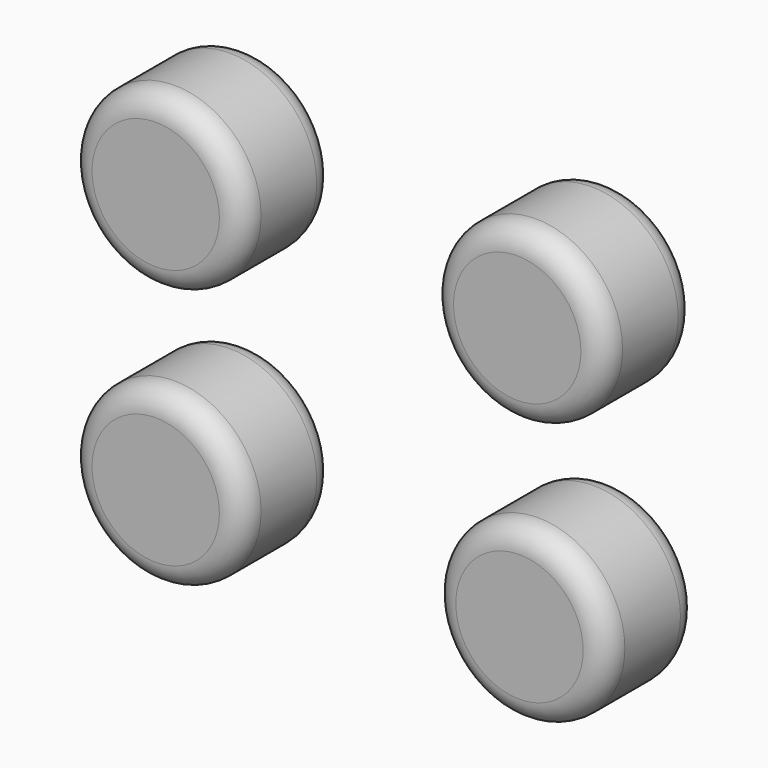
from build123d import *

# Parameters (mm, degrees)
F0_R     = 19.05
F1_DEPTH = 25.4
F2_R     = 5.08
F3_R     = 5.08
F4_R     = 5.08


with BuildPart() as f1:
    # F0 (on Front) → F1 (new body)
    with BuildSketch(Plane.XZ):
        with Locations((-40.024104, 30.393604)):
            Circle(F0_R)
        with Locations((39.285175, 30.393604)):
            Circle(F0_R)
        with Locations((-40.024104, -26.679428)):
            Circle(F0_R)
        with Locations((39.779316, -27.173568)):
            Circle(F0_R)
    extrude(amount=F1_DEPTH)

    # F2
    f2_edges = [f1.edges().sort_by_distance(p)[0] for p in [
        (-59.074104, -25.4, 30.393604),
        (20.235175, -25.4, 30.393604),
        (-59.074104, -25.4, -26.679428),
        (20.729316, -25.4, -27.173568),
    ]]
    fillet(f2_edges, radius=F2_R)

    # F3
    f3_edges = [f1.edges().sort_by_distance(p)[0] for p in [
        (-59.074104, 0, -26.679428),
        (20.729316, 0, -27.173568),
        (-59.074104, 0, 30.393604),
    ]]
    fillet(f3_edges, radius=F3_R)

    # F4
    f4_edges = [f1.edges().sort_by_distance(p)[0] for p in [
        (20.235175, 0, 30.393604),
    ]]
    fillet(f4_edges, radius=F4_R)


solid = f1.part
